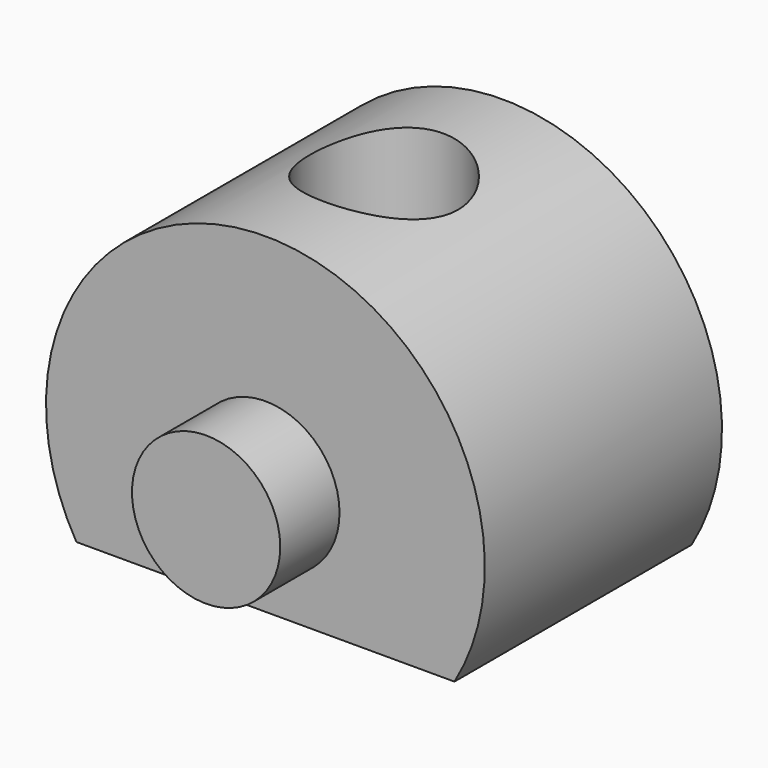
from build123d import *

# Parameters (mm, degrees)
F1_DEPTH      = 12.7
F2_R          = 3.175
F3_DEPTH      = 3.175
F4_R          = 3.175
F5_DEPTH      = 3.175
F6_R          = 3.175
F7_DEPTH      = 25.4
F7_DEPTH_BACK = 25.4


with BuildPart() as f1:
    # F0 (on Front) → F1 (new body)
    with BuildSketch(Plane.XZ):
        with BuildLine():
            Line((-8.097896, -4.769327), (8.097896, -4.769327))
            ThreePointArc((8.097896, -4.769327), (0, 9.398), (-8.097896, -4.769327))
        make_face()
    extrude(amount=F1_DEPTH)

    # F2 (on face) → F3 (join)
    with BuildSketch(Plane.XZ.offset(12.7)):
        Circle(F2_R)
    extrude(amount=F3_DEPTH)

    # F4 (on face) → F5 (join)
    with BuildSketch(Plane(origin=(0, 0, 0), x_dir=(-1, 0, 0), z_dir=(0, 1, 0))):
        Circle(F4_R)
    extrude(amount=F5_DEPTH)

    # F6 (on face) → F7 (cut, two sides)
    with BuildSketch(Plane(origin=(0, 0, -4.769327), x_dir=(1, 0, 0), z_dir=(0, 0, -1))) as f7_sk:
        with Locations((0, 6.35)):
            Circle(F6_R)
    extrude(amount=-F7_DEPTH, mode=Mode.SUBTRACT)
    extrude(f7_sk.sketch, amount=-F7_DEPTH_BACK, mode=Mode.SUBTRACT)


solid = f1.part
